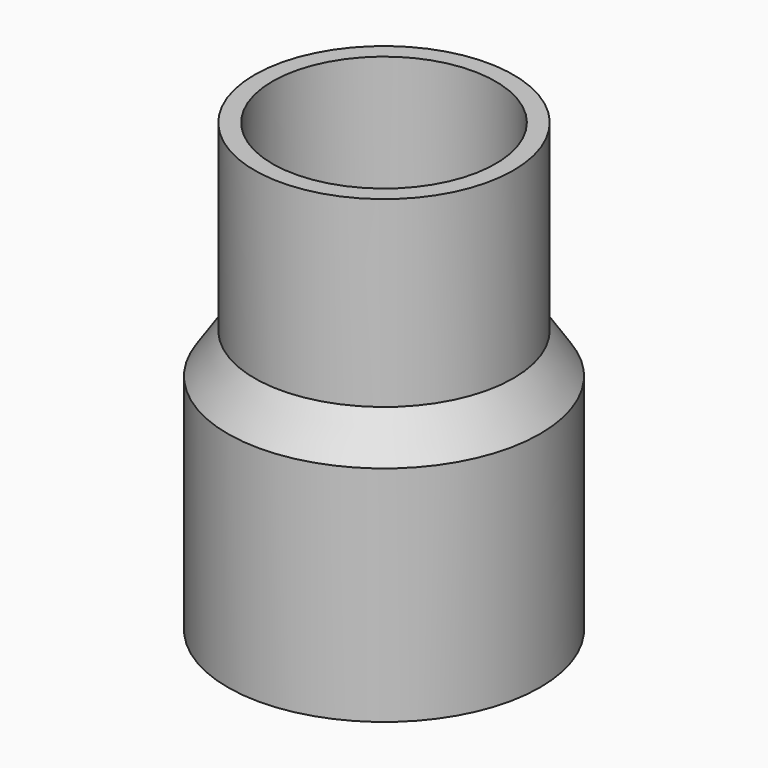
from build123d import *

# Parameters (mm, degrees)
F0_R      = 17.5
F1_DEPTH  = 25
F3_R      = 14.5
F4_DEPTH  = 20.5
F1_FACE_R = 17.5
F4_FACE_R = 14.5
F7_D      = 25
F9_D      = 26.6
F9_DEPTH  = 25
F9_TIP    = 7.9914462331


with BuildPart() as f1:
    # F0 (on Top) → F1 (new body)
    with BuildSketch(Plane.XY):
        Circle(F0_R)
    extrude(amount=F1_DEPTH)



with BuildPart() as f4:
    # F3 (on offset) → F4 (new body)
    with BuildSketch(Plane.XY.offset(29.5)):
        Circle(F3_R)
    extrude(amount=F4_DEPTH)


with BuildPart() as f1_1:
    add(f1.part)

    add(f4.part)  # F5 merges F4
    # F1_face (on face) → F5 section 0
    with BuildSketch(Plane.XY.offset(25)):
        Circle(F1_FACE_R)
    # F4_face (on face) → F5 section 1
    with BuildSketch(Plane(origin=(0, 0, 29.5), x_dir=(1, 0, 0), z_dir=(0, 0, -1))):
        Circle(F4_FACE_R)
    loft()

    # F7 (through all)
    with Locations(Plane.XY.offset(50)):
        with Locations((0, 0)):
            Hole(F7_D / 2)

    # F9
    with Locations(Plane(origin=(0, 0, 0), x_dir=(1, 0, 0), z_dir=(0, 0, -1))):
        with Locations((0, 0)):
            Hole(F9_D / 2, depth=F9_DEPTH)
            with Locations((0, 0, -(F9_DEPTH + F9_TIP / 2))):  # 118° drill point
                Cone(0, F9_D / 2, F9_TIP, mode=Mode.SUBTRACT)


solid = f1_1.part
